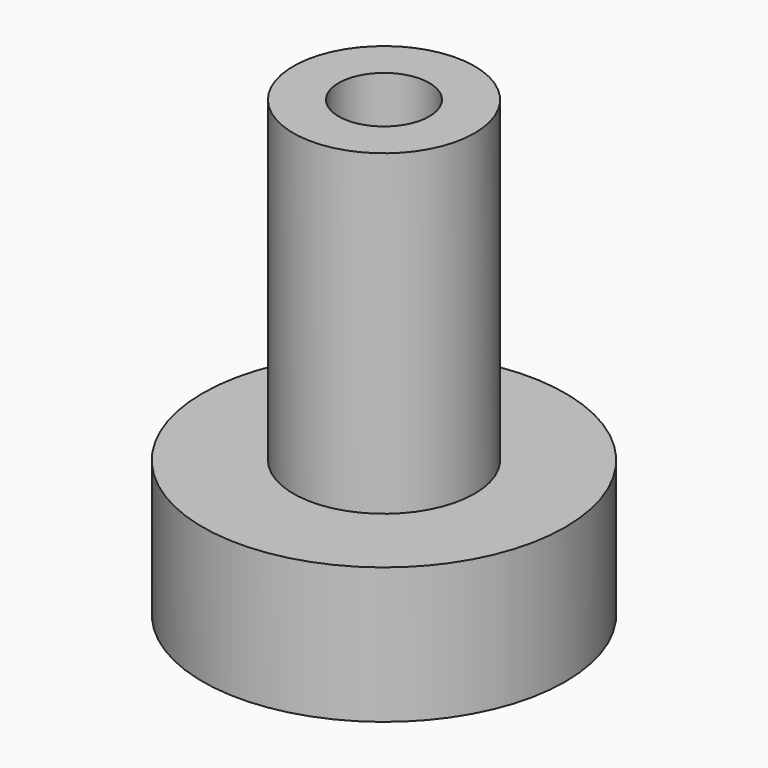
from build123d import *

# Parameters (mm, degrees)
F0_R     = 25.4
F1_DEPTH = 19.05
F2_R     = 12.7
F3_DEPTH = 44.45
F4_R     = 6.35
F5_DEPTH = 63.501


with BuildPart() as f1:
    # F0 (on Top) → F1 (new body)
    with BuildSketch(Plane.XY):
        Circle(F0_R)
    extrude(amount=F1_DEPTH)

    # F2 (on face) → F3 (join)
    with BuildSketch(Plane.XY.offset(19.05)):
        Circle(F2_R)
    extrude(amount=F3_DEPTH)

    # F4 (on face) → F5 (cut, through all)
    with BuildSketch(Plane.XY.offset(63.5)):
        Circle(F4_R)
    extrude(amount=-F5_DEPTH, mode=Mode.SUBTRACT)


solid = f1.part
